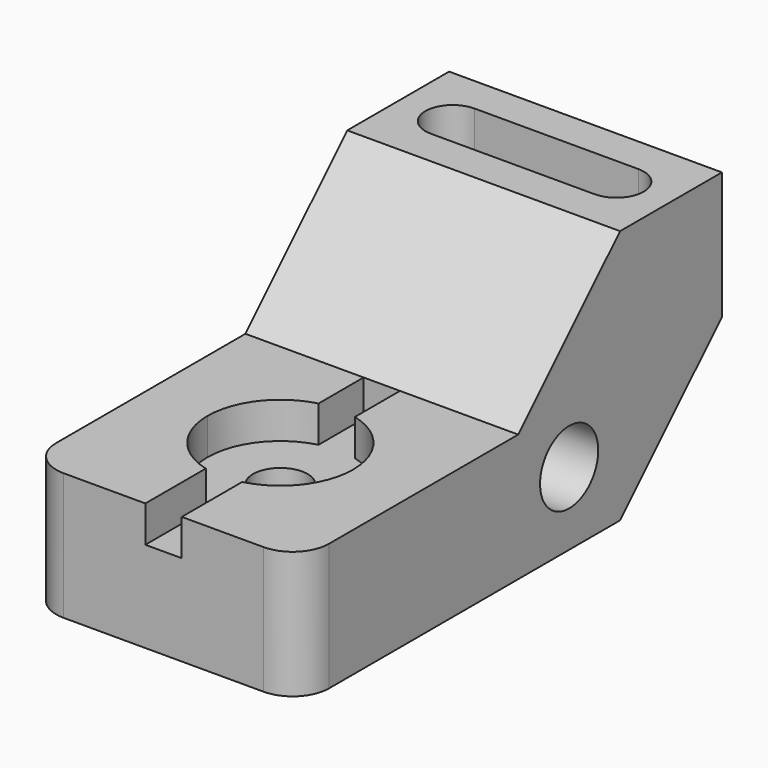
from build123d import *

# Parameters (mm, degrees)
F1_DEPTH       = 76.2
F3_D           = 15.24
F3_CBORE_D     = 40.64
F3_CBORE_DEPTH = 10.16
F4_DEPTH       = 10.16
F5_R           = 10.16
F6_DEPTH       = 76.2
F8_DEPTH       = 27.94
F9_R           = 10.16


with BuildPart() as f1:
    # F0 (on Right) → F1 (new body)
    with BuildSketch(Plane.YZ):
        Polygon((0, 35.56), (0, 0), (111.76, 0), (147.32, 35.56), (147.32, 71.12), (111.76, 71.12), (76.2, 35.56), align=None)
    extrude(amount=F1_DEPTH)

    # F3 (through all)
    with Locations(Plane.XY.offset(35.56)):
        with Locations((38.1, 40.77832)):
            CounterBoreHole(F3_D / 2, F3_CBORE_D / 2, F3_CBORE_DEPTH)

    # F2 (on face) → F4 (cut)
    with BuildSketch(Plane.XY.offset(35.56)):
        with BuildLine():
            Line((33.02, 76.2), (33.02, 60.453076))
            ThreePointArc((33.02, 60.453076), (17.78, 40.77832), (33.02, 21.103565))
            Line((33.02, 21.103565), (33.02, 0))
            Line((33.02, 0), (43.18, 0))
            Line((43.18, 0), (43.18, 21.103565))
            ThreePointArc((43.18, 21.103565), (58.42, 40.77832), (43.18, 60.453076))
            Line((43.18, 60.453076), (43.18, 76.2))
            Line((43.18, 76.2), (33.02, 76.2))
        make_face()
    extrude(amount=-F4_DEPTH, mode=Mode.SUBTRACT)

    # F5 (on face) → F6 (cut)
    with BuildSketch(Plane.YZ.offset(76.2)):
        with Locations((93.98, 20.32)):
            Circle(F5_R)
    extrude(amount=-F6_DEPTH, mode=Mode.SUBTRACT)

    # F7 (on face) → F8 (cut)
    with BuildSketch(Plane.XY.offset(71.12)):
        with BuildLine():
            Line((60.96, 137.16), (15.24, 137.16))
            ThreePointArc((15.24, 137.16), (7.62, 129.54), (15.24, 121.92))
            Line((15.24, 121.92), (60.96, 121.92))
            ThreePointArc((60.96, 121.92), (68.58, 129.54), (60.96, 137.16))
        make_face()
    extrude(amount=-F8_DEPTH, mode=Mode.SUBTRACT)

    # F9
    f9_edges = [f1.edges().sort_by_distance(p)[0] for p in [
        (0, 0, 17.78),
        (76.2, 0, 17.78),
    ]]
    fillet(f9_edges, radius=F9_R)


solid = f1.part
